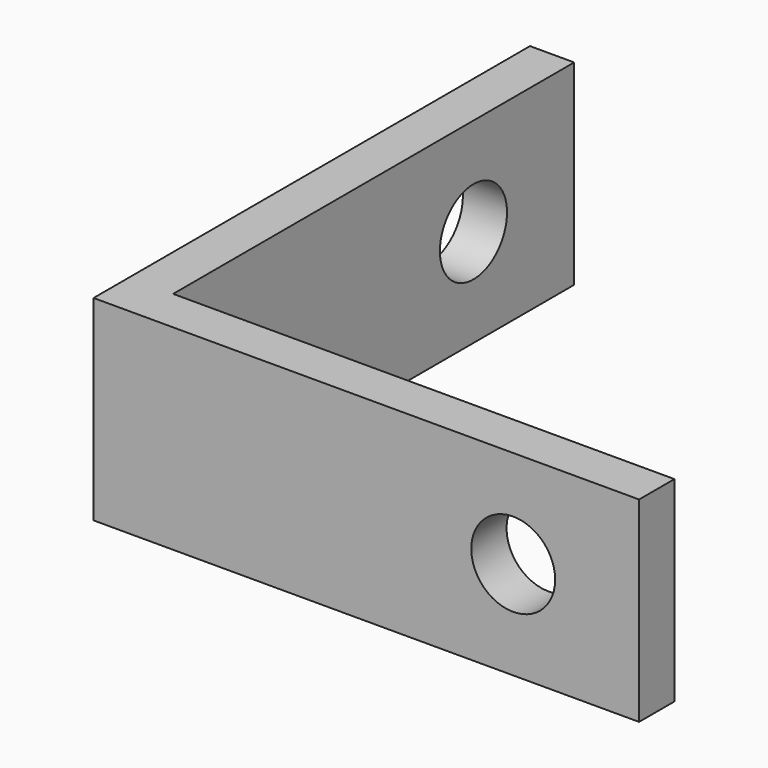
from build123d import *

# Parameters (mm, degrees)
F0_W     = 23.84
F0_H     = 1.58
F1_DEPTH = 7
F2_R     = 1.5
F2_W     = 5.92
F2_H     = 7
F3_DEPTH = 25
F4_R     = 1.5
F4_W     = 5.92
F4_H     = 7
F5_DEPTH = 25


with BuildPart() as f1:
    # F0 (on Top) → F1 (new body)
    with BuildSketch(Plane.XY):
        Polygon((0, 25.42), (0, 0), (1.58, 0), (1.58, 1.58), (1.58, 25.42), align=None)
        with Locations((13.5, 0.79)):
            Rectangle(F0_W, F0_H)
    extrude(amount=F1_DEPTH)

    # F2 (on face) → F3 (cut)
    with BuildSketch(Plane(origin=(0, 0, 0), x_dir=(0, -1, 0), z_dir=(-1, 0, 0))):
        with Locations((-15, 3.5)):
            Circle(F2_R)
        with Locations((-22.46, 3.5)):
            Rectangle(F2_W, F2_H)
    extrude(amount=-F3_DEPTH, mode=Mode.SUBTRACT)

    # F4 (on face) → F5 (cut)
    with BuildSketch(Plane.XZ):
        with Locations((15, 3.5)):
            Circle(F4_R)
        with Locations((22.46, 3.5)):
            Rectangle(F4_W, F4_H)
    extrude(amount=-F5_DEPTH, mode=Mode.SUBTRACT)


solid = f1.part
